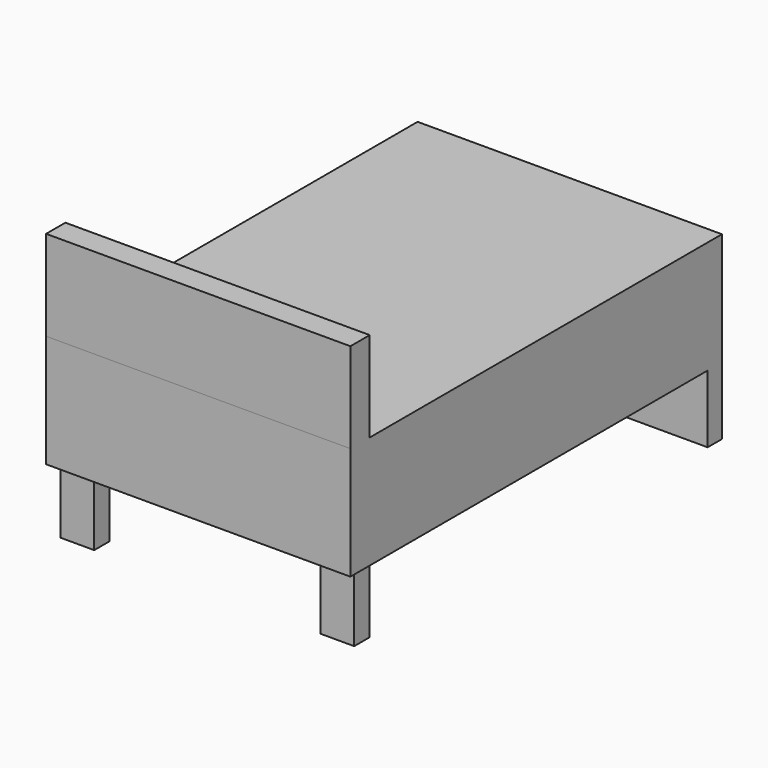
from build123d import *

# Parameters (mm, degrees)
F0_W     = 1350
F0_H     = 2060
F1_DEPTH = 500
F2_W     = 1350
F2_H     = 79.202621
F2_W_2   = 148.642122
F2_H_2   = 84.572316
F3_DEPTH = 300
F4_W     = 1350
F4_H     = 107.108741
F5_DEPTH = 400


with BuildPart() as f1:
    # F0 (on Top) → F1 (new body)
    with BuildSketch(Plane.XY):
        Rectangle(F0_W, F0_H)
        Rectangle(F0_W, F0_H)
    extrude(amount=F1_DEPTH)

    # F2 (on face) → F3 (join)
    with BuildSketch(Plane(origin=(0, 0, 0), x_dir=(1, 0, 0), z_dir=(0, 0, -1))):
        with Locations((0, -990.39869)):
            Rectangle(F2_W, F2_H)
        with Locations((-576.629132, 936.702013)):
            Rectangle(F2_W_2, F2_H_2)
        with Locations((576.629132, 936.702013)):
            Rectangle(F2_W_2, F2_H_2)
    extrude(amount=F3_DEPTH)

    # F4 (on face) → F5 (join)
    with BuildSketch(Plane.XY.offset(500)):
        with Locations((0, -976.445629)):
            Rectangle(F4_W, F4_H)
    extrude(amount=F5_DEPTH)


solid = f1.part
